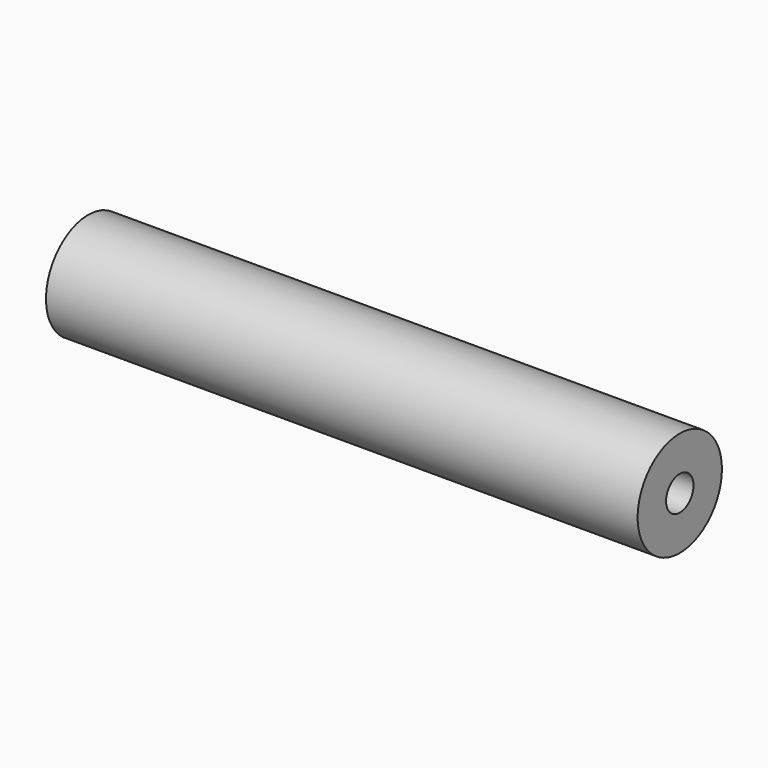
from build123d import *

# Parameters (mm, degrees)
F0_R     = 13.832677
F1_DEPTH = 155.405
F3_D     = 9


with BuildPart() as f1:
    # F0 (on Right) → F1 (new body)
    with BuildSketch(Plane.YZ):
        with Locations((-32.793097, 32.318071)):
            Circle(F0_R)
    extrude(amount=F1_DEPTH)

    # F3 (through all)
    with Locations(Plane.YZ.offset(155.405)):
        with Locations((-32.793097, 32.318071)):
            Hole(F3_D / 2)


solid = f1.part
